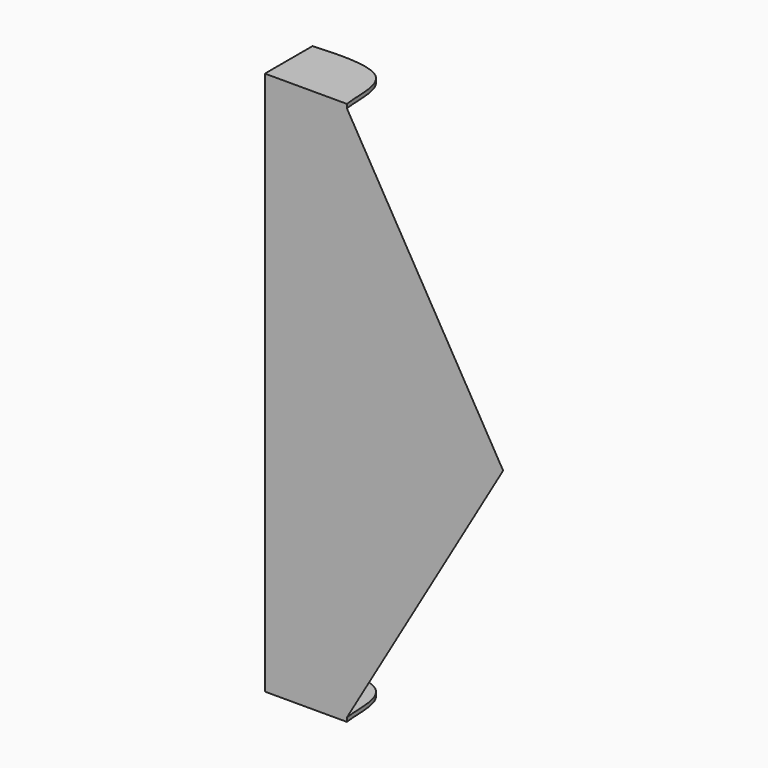
from build123d import *

# Parameters (mm, degrees)
F7_DEPTH = 4


with BuildPart() as f5:
    # F2 (on Top) → F5 section 0
    with BuildSketch(Plane.XY):
        with BuildLine():
            add(Edge.make_bspline(
                [(-42.1898663044, 0), (-20.095104951, 6.3461639408), (16.4689935563, 16.848280699), (33.6635201253, 4.7769359586), (40.4678285122, 0)],
                knots=[0, 0, 0, 0, 0.6042747464, 1, 1, 1, 1], degree=3))
            Line((-42.1898663044, 0), (40.4678285122, 0))
        make_face()
    # F4 (on offset) → F5 section 1
    with BuildSketch(Plane.XY.offset(270)):
        with BuildLine():
            add(Edge.make_bspline(
                [(-42.1898663044, 0), (-20.9629036859, 6.7867963825), (110.2383227264, 31.3871603736), (189.1823338107, 6.6216905533), (197.8101336956, 0)],
                knots=[0, 0, 0, 0, 0.5699540347, 1, 1, 1, 1], degree=3))
            Line((-42.1898663044, 0), (197.8101336956, 0))
        make_face()
    loft()

    # F6 (on face) → F7 (join)
    with BuildSketch(Plane(origin=(0, 0, 0), x_dir=(1, 0, 0), z_dir=(0, 0, -1))):
        with BuildLine():
            add(Edge.make_bspline(
                [(40.4678285122, 0), (37.8826727608, -14.0204940933), (45.9325195, -67.5326493396), (-22.4150604159, -60.996185377), (-42.1898663044, -60)],
                knots=[0, 0, 0, 0, 0.4587258224, 1, 1, 1, 1], degree=3))
            Line((40.4678285122, 0), (-42.1898663044, 0))
            Line((-42.1898663044, 0), (-42.1898663044, -60))
        make_face()
    extrude(amount=F7_DEPTH)

    # F8: F5 across face


with BuildPart() as f5_1:
    add(f5.part)
    add(f5.part.mirror(Plane(origin=(85.8641490602, 7.5856772393, 270), x_dir=(1, 0, 0), z_dir=(0, 0, 1))))


solid = f5_1.part
